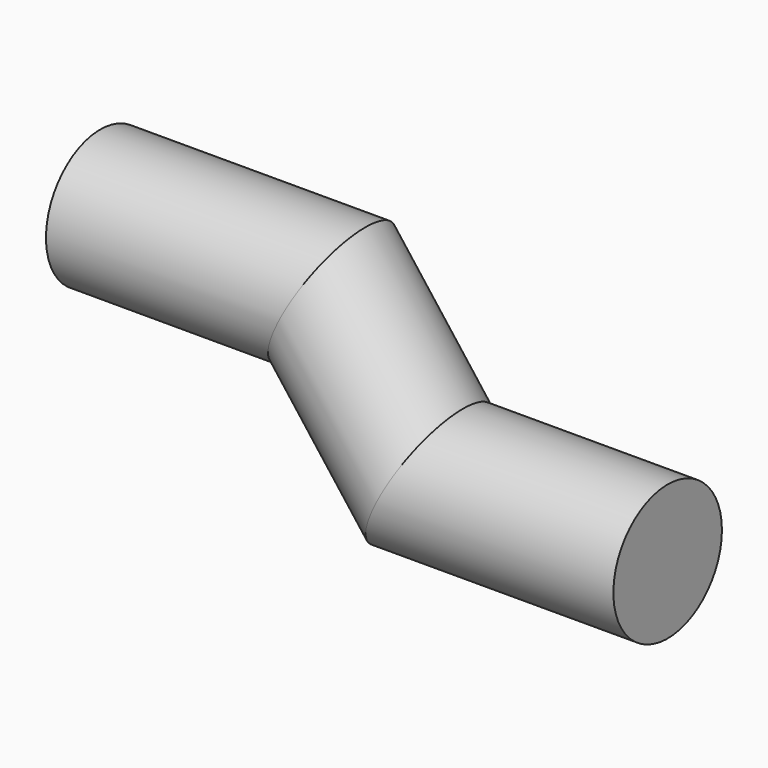
from build123d import *

# Parameters (mm, degrees)
F0_R = 12.7


with BuildPart() as f2:
    # F2: sweep along a path in F1
    with BuildLine(Plane.XZ) as f2_path:
        Line((0.0258330274, -0.238586741), (43.2142354548, -0.238586741))
        Line((43.2142354548, -0.238586741), (61.4983774722, -24.1971164942))
        Line((61.4983774722, -24.1971164942), (106.2531774722, -24.1971164942))
    # F0 (on Right) → F2 (sweep)
    with BuildSketch(Plane.YZ):
        Circle(F0_R)
    sweep(path=f2_path.line, transition=Transition.RIGHT)


solid = f2.part
